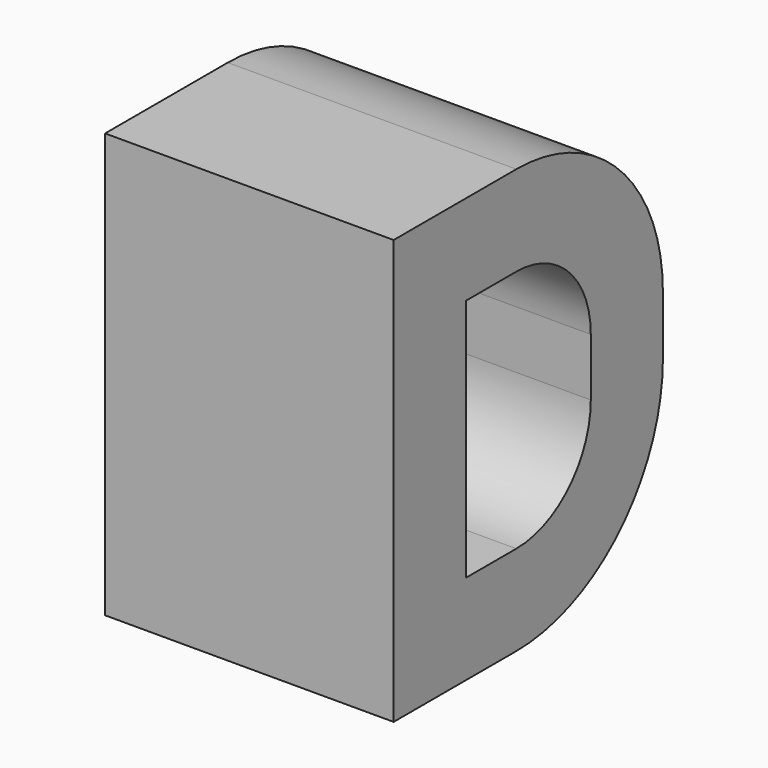
from build123d import *

# Parameters (mm, degrees)
F1_DEPTH = 40


with BuildPart() as f1:
    # F0 (on Right) → F1 (new body, symmetric)
    with BuildSketch(Plane.YZ):
        with BuildLine():
            ThreePointArc((46.657082, 8.005817), (31.778107, 43.926841), (-4.142918, 58.805817))
            Line((-4.142918, 58.805817), (-46.657082, 58.805817))
            Line((-46.657082, 58.805817), (-46.657082, -58.805817))
            Line((-46.657082, -58.805817), (-4.142918, -58.805817))
            ThreePointArc((-4.142918, -58.805817), (31.778107, -43.926841), (46.657082, -8.005817))
            Line((46.657082, -8.005817), (46.657082, 8.005817))
        make_face()
        with BuildLine():
            ThreePointArc((-4.142918, 33.805817), (14.100437, 26.249172), (21.657082, 8.005817))
            Line((21.657082, 8.005817), (21.657082, -8.005817))
            ThreePointArc((21.657082, -8.005817), (14.100437, -26.249172), (-4.142918, -33.805817))
            Line((-4.142918, -33.805817), (-21.657082, -33.805817))
            Line((-21.657082, -33.805817), (-21.657082, 33.805817))
            Line((-21.657082, 33.805817), (-4.142918, 33.805817))
        make_face(mode=Mode.SUBTRACT)
    extrude(amount=F1_DEPTH, both=True)


solid = f1.part
